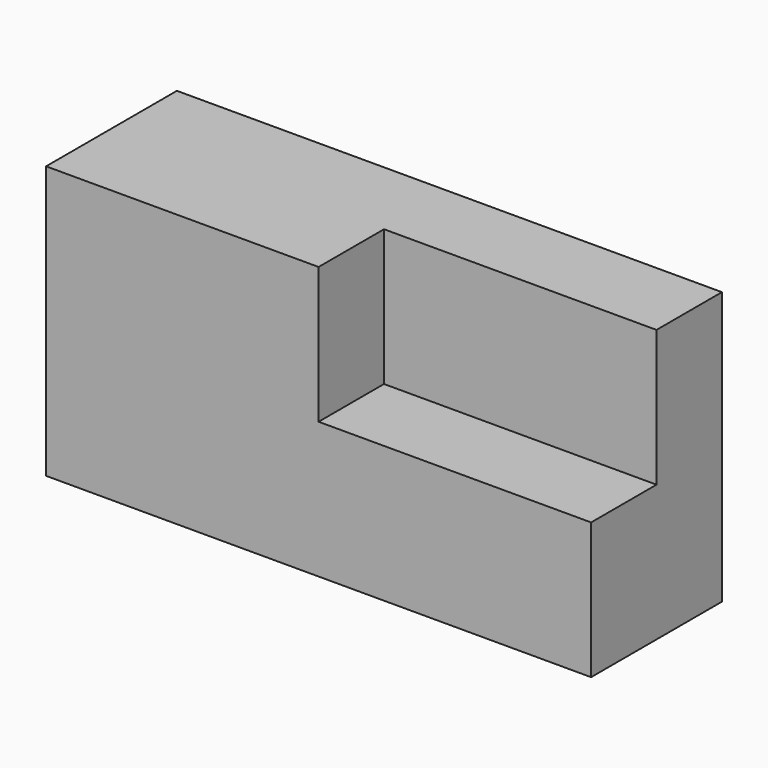
from build123d import *

# Parameters (mm, degrees)
F1_DEPTH = 31.75
F2_W     = 63.5
F2_H     = 19.05
F3_DEPTH = 31.75


with BuildPart() as f1:
    # F0 (on Top) → F1 (new body)
    with BuildSketch(Plane.XY):
        Polygon((-51.643595, 20.820163), (-51.643595, -17.279837), (11.856405, -17.279837), (11.856405, 1.770163), (75.356405, 1.770163), (75.356405, 20.820163), align=None)
    extrude(amount=F1_DEPTH)

    # F2 (on face) → F3 (join)
    with BuildSketch(Plane(origin=(0, 0, 0), x_dir=(1, 0, 0), z_dir=(0, 0, -1))):
        with Locations((43.606405, 7.754837)):
            Rectangle(F2_W, F2_H)
        Polygon((11.856405, 17.279837), (-51.643595, 17.279837), (-51.643595, -20.820163), (75.356405, -20.820163), (75.356405, -1.770163), (11.856405, -1.770163), align=None)
    extrude(amount=F3_DEPTH)


solid = f1.part
